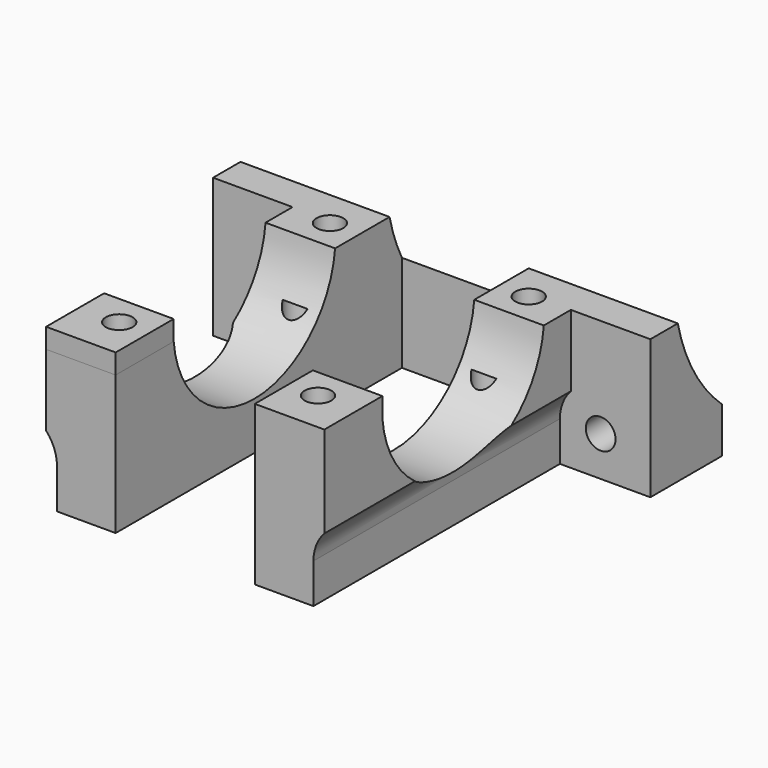
from build123d import *

# Parameters (mm, degrees)
F0_W      = 7
F0_H      = 31
F1_DEPTH  = 14
F2_R      = 1.35
F3_DEPTH  = 8
F4_R      = 10.2
F5_DEPTH  = 30
F6_R      = 1.35
F7_DEPTH  = 9
F8_R      = 1.5
F9_DEPTH  = 7
F10_R     = 18
F11_DEPTH = 44.001
F13_DEPTH = 31
F14_W     = 7
F14_H     = 7.299138
F14_R     = 1.35
F15_DEPTH = 2


with BuildPart() as f1:
    # F0 (on Top) → F1 (new body)
    with BuildSketch(Plane.XY):
        with Locations((-10.5, 15.5)):
            Rectangle(F0_W, F0_H)
        Polygon((-22, 31), (-14, 31), (-7, 31), (-7, 36), (7, 36), (7, 31), (14, 31), (22, 31), (22, 40), (-22, 40), align=None)
        with Locations((10.5, 15.5)):
            Rectangle(F0_W, F0_H)
    extrude(amount=F1_DEPTH)

    # F2 (on face) → F3 (cut)
    with BuildSketch(Plane.XY.offset(14)):
        with Locations((-10, 4.2)):
            Circle(F2_R)
        with Locations((-10, 30.7)):
            Circle(F2_R)
        with Locations((10, 30.7)):
            Circle(F2_R)
        with Locations((10, 4.2)):
            Circle(F2_R)
    extrude(amount=-F3_DEPTH, mode=Mode.SUBTRACT)

    # F4 (on face) → F5 (cut)
    with BuildSketch(Plane(origin=(-14, 0, 0), x_dir=(0, -1, 0), z_dir=(-1, 0, 0))):
        with Locations((-17.45, 15)):
            Circle(F4_R)
    extrude(amount=-F5_DEPTH, mode=Mode.SUBTRACT)

    # F6 (on face) → F7 (cut)
    with BuildSketch(Plane(origin=(0, 0, 0), x_dir=(1, 0, 0), z_dir=(0, 0, -1))):
        with Locations((9.5, -4.2)):
            Circle(F6_R)
        with Locations((-9.5, -4.2)):
            Circle(F6_R)
        with Locations((9.5, -26.2)):
            Circle(F6_R)
        with Locations((-9.5, -26.2)):
            Circle(F6_R)
    extrude(amount=-F7_DEPTH, mode=Mode.SUBTRACT)

    # F8 (on face) → F9 (cut)
    with BuildSketch(Plane.XZ.offset(-31)):
        with Locations((-17, 4)):
            Circle(F8_R)
        with Locations((17, 4)):
            Circle(F8_R)
    extrude(amount=-F9_DEPTH, mode=Mode.SUBTRACT)

    # F10 (on face) → F11 (cut, through all)
    with BuildSketch(Plane.YZ.offset(22)):
        with Locations((52, 18)):
            Circle(F10_R)
    extrude(amount=-F11_DEPTH, mode=Mode.SUBTRACT)

    # F12 (on face) → F13 (cut, through all)
    with BuildSketch(Plane.XZ):
        with BuildLine():
            Line((-12.9, -5.045816), (-12.9, 4))
            ThreePointArc((-12.9, 4), (-18.692576, 7.734325), (-19.70253, 0.916766))
            Line((-19.70253, 0.916766), (-12.9, -5.045816))
        make_face()
        with BuildLine():
            Line((12.9, -5.045816), (19.70253, 0.916766))
            ThreePointArc((19.70253, 0.916766), (18.692576, 7.734325), (12.9, 4))
            Line((12.9, 4), (12.9, -5.045816))
        make_face()
    extrude(amount=-F13_DEPTH, mode=Mode.SUBTRACT)

    # F14 (on face) → F15 (join)
    with BuildSketch(Plane.XY.offset(14)):
        with Locations((10.5, 3.649569)):
            Rectangle(F14_W, F14_H)
        with Locations((10, 4.2)):
            Circle(F14_R, mode=Mode.SUBTRACT)
        with Locations((-10.5, 3.649569)):
            Rectangle(F14_W, F14_H)
        with Locations((-10, 4.2)):
            Circle(F14_R, mode=Mode.SUBTRACT)
    extrude(amount=F15_DEPTH)


solid = f1.part
